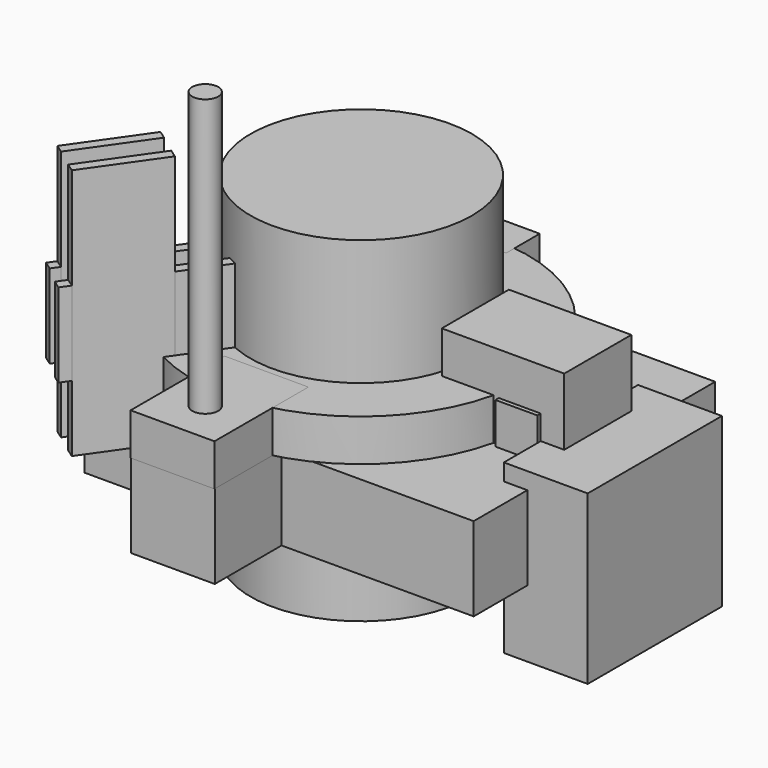
from build123d import *

# Parameters (mm, degrees)
CYLINDER_R             = 13.2
CYLINDER_DEPTH         = 40
BOX_W                  = 10
BOX_H                  = 36
BOX_DEPTH              = 46.4
BOX001_W               = 10
BOX001_H               = 10
BOX001_DEPTH           = 14.6
BOX002_W               = 10
BOX002_H               = 10
BOX002_DEPTH           = 10
CYLINDER001_R          = 1.5
CYLINDER001_DEPTH      = 30
CYLINDER002_R          = 20
CYLINDER002_DEPTH      = 5
BOX003_W               = 10
BOX003_H               = 14
BOX003_DEPTH           = 5
BOX004_W               = 5
BOX004_H               = 10
BOX004_DEPTH           = 5
BOX005_W               = 10
BOX005_H               = 20
BOX005_DEPTH           = 20
CYLINDER003_R          = 1.55
CYLINDER003_DEPTH      = 50
BOX006_W               = 5
BOX006_H               = 5
BOX006_DEPTH           = 5
CYLINDER004_R          = 2.7
CYLINDER004_DEPTH      = 10
CYLINDER005_R          = 0.6
CYLINDER005_DEPTH      = 30
CYLINDER006_R          = 0.6
CYLINDER006_DEPTH      = 30
BOX007_W               = 1.2
BOX007_H               = 30
BOX007_DEPTH           = 10
BOX007_PLACEMENT_ANGLE = 325
BOX008_W               = 1.2
BOX008_H               = 30
BOX008_DEPTH           = 10
BOX008_PLACEMENT_ANGLE = 325
BOX009_W               = 1.2
BOX009_H               = 30
BOX009_DEPTH           = 10
BOX009_ROLL_ANGLE      = 90
BOX009_PLACEMENT_ANGLE = -35
BOX010_W               = 1.2
BOX010_H               = 30
BOX010_DEPTH           = 10
BOX010_ROLL_ANGLE      = 90
BOX010_PLACEMENT_ANGLE = -35


with BuildPart() as cardboardbarrelholder:
    # Cylinder → Cylinder (new body)
    with BuildSketch(Plane(origin=(-1.1, 0, -20), x_dir=(1, 0, 0), z_dir=(0, 0, 1))):
        Circle(CYLINDER_R)
    extrude(amount=CYLINDER_DEPTH)


with BuildPart() as mainpiece:
    # Box → Box (new body)
    with BuildSketch(Plane(origin=(-19.7, -18, 0), x_dir=(0, 0, -1), z_dir=(1, 0, 0))):
        with Locations((5, 18)):
            Rectangle(BOX_W, BOX_H)
    extrude(amount=BOX_DEPTH)


with BuildPart() as cube001:
    # Box001 → Box001 (new body)
    with BuildSketch(Plane(origin=(12.1, -4.5, 10), x_dir=(0, 0, -1), z_dir=(1, 0, 0))):
        with Locations((5, 5)):
            Rectangle(BOX001_W, BOX001_H)
    extrude(amount=BOX001_DEPTH)


with BuildPart() as hingepintab:
    # Box002 → Box002 (new body)
    with BuildSketch(Plane(origin=(-6.2, -27.952, -10), x_dir=(1, 0, 0), z_dir=(0, 0, 1))):
        with Locations((5, 5)):
            Rectangle(BOX002_W, BOX002_H)
    extrude(amount=BOX002_DEPTH)


with BuildPart() as hingetabhole:
    # Cylinder001 → Cylinder001 (new body)
    with BuildSketch(Plane(origin=(-1.3, -23, -12), x_dir=(1, 0, 0), z_dir=(0, 0, 1))):
        Circle(CYLINDER001_R)
    extrude(amount=CYLINDER001_DEPTH)


with BuildPart() as shutter:
    # Cylinder002 → Cylinder002 (new body)
    with BuildSketch(Plane(origin=(-1.2, 0, 0), x_dir=(1, 0, 0), z_dir=(0, 0, 1))):
        Circle(CYLINDER002_R)
    extrude(amount=CYLINDER002_DEPTH)


with BuildPart() as shutterhingetab:
    # Box003 → Box003 (new body)
    with BuildSketch(Plane(origin=(-6.2, -28, 0), x_dir=(1, 0, 0), z_dir=(0, 0, 1))):
        with Locations((5, 7)):
            Rectangle(BOX003_W, BOX003_H)
    extrude(amount=BOX003_DEPTH)


with BuildPart() as swivelstop:
    # Box004 → Box004 (new body)
    with BuildSketch(Plane(origin=(18.9, -5, -0.1), x_dir=(1, 0, 0), z_dir=(0, 0, 1))):
        with Locations((2.5, 5)):
            Rectangle(BOX004_W, BOX004_H)
    extrude(amount=BOX004_DEPTH)


with BuildPart() as footcutout:
    # Box005 → Box005 (new body)
    with BuildSketch(Plane(origin=(23.9, -10, -18), x_dir=(1, 0, 0), z_dir=(0, 0, 1))):
        with Locations((5, 10)):
            Rectangle(BOX005_W, BOX005_H)
    extrude(amount=BOX005_DEPTH)


with BuildPart() as shuttertabhole:
    # Cylinder003 → Cylinder003 (new body)
    with BuildSketch(Plane(origin=(-1.3, -23, -12), x_dir=(1, 0, 0), z_dir=(0, 0, 1))):
        Circle(CYLINDER003_R)
    extrude(amount=CYLINDER003_DEPTH)


with BuildPart() as obj1:
    # Box006 → Box006 (new body)
    with BuildSketch(Plane(origin=(-3.7, 18.6, 0), x_dir=(1, 0, 0), z_dir=(0, 0, 1))):
        with Locations((2.5, 2.5)):
            Rectangle(BOX006_W, BOX006_H)
    extrude(amount=BOX006_DEPTH)


with BuildPart() as obj2:
    # Cylinder004 → Cylinder004 (new body)
    with BuildSketch(Plane(origin=(-1.2, 0, -8), x_dir=(1, 0, 0), z_dir=(0, 0, 1))):
        Circle(CYLINDER004_R)
    extrude(amount=CYLINDER004_DEPTH)


with BuildPart() as obj3:
    # Cylinder005 → Cylinder005 (new body)
    with BuildSketch(Plane(origin=(0.4, -1.1, -18), x_dir=(1, 0, 0), z_dir=(0, 0, 1))):
        Circle(CYLINDER005_R)
    extrude(amount=CYLINDER005_DEPTH)


with BuildPart() as obj4:
    # Cylinder006 → Cylinder006 (new body)
    with BuildSketch(Plane(origin=(-2.6, 1.4, -18), x_dir=(1, 0, 0), z_dir=(0, 0, 1))):
        Circle(CYLINDER006_R)
    extrude(amount=CYLINDER006_DEPTH)


with BuildPart() as radialtransit1:
    # Box007 → Box007 (new body)
    with BuildSketch(Plane.XY):
        with Locations((0.6, 15)):
            Rectangle(BOX007_W, BOX007_H)
    extrude(amount=BOX007_DEPTH)


with BuildPart() as radialtransit1_1:
    # Box007 placement: moved
    add(radialtransit1.part.moved(Location((-17.352968, -25.35945, 3.8))).rotate(Axis((-17.352968, -25.35945, 3.8), (0, 0, 1)), BOX007_PLACEMENT_ANGLE))


with BuildPart() as radialtransit2:
    # Box008 → Box008 (new body)
    with BuildSketch(Plane.XY):
        with Locations((0.6, 15)):
            Rectangle(BOX008_W, BOX008_H)
    extrude(amount=BOX008_DEPTH)


with BuildPart() as radialtransit2_1:
    # Box008 placement: moved
    add(radialtransit2.part.moved(Location((-20.375588, -22.876757, 3.8))).rotate(Axis((-20.375588, -22.876757, 3.8), (0, 0, 1)), BOX008_PLACEMENT_ANGLE))


with BuildPart() as radialtransit3:
    # Box009 → Box009 (new body)
    with BuildSketch(Plane.XY):
        with Locations((0.6, 15)):
            Rectangle(BOX009_W, BOX009_H)
    extrude(amount=BOX009_DEPTH)


with BuildPart() as radialtransit3_1:
    # Box009 roll: moved
    add(radialtransit3.part.rotate(Axis((0, 0, 0), (1, 0, 0)), BOX009_ROLL_ANGLE))


with BuildPart() as radialtransit3_2:
    # Box009 placement: moved
    add(radialtransit3_1.part.moved(Location((-10.871554, -16.103032, -4.1))).rotate(Axis((-10.871554, -16.103032, -4.1), (0, 0, 1)), BOX009_PLACEMENT_ANGLE))


with BuildPart() as radialtransit4:
    # Box010 → Box010 (new body)
    with BuildSketch(Plane.XY):
        with Locations((0.6, 15)):
            Rectangle(BOX010_W, BOX010_H)
    extrude(amount=BOX010_DEPTH)


with BuildPart() as radialtransit4_1:
    # Box010 roll: moved
    add(radialtransit4.part.rotate(Axis((0, 0, 0), (1, 0, 0)), BOX010_ROLL_ANGLE))


with BuildPart() as radialtransit4_2:
    # Box010 placement: moved
    add(radialtransit4_1.part.moved(Location((-14.008889, -13.784169, -4.1))).rotate(Axis((-14.008889, -13.784169, -4.1), (0, 0, 1)), BOX010_PLACEMENT_ANGLE))


solid = Compound([cardboardbarrelholder.part, mainpiece.part, cube001.part, hingepintab.part, hingetabhole.part, shutter.part, shutterhingetab.part, swivelstop.part, footcutout.part, shuttertabhole.part, obj1.part, obj2.part, obj3.part, obj4.part, radialtransit1_1.part, radialtransit2_1.part, radialtransit3_2.part, radialtransit4_2.part])
